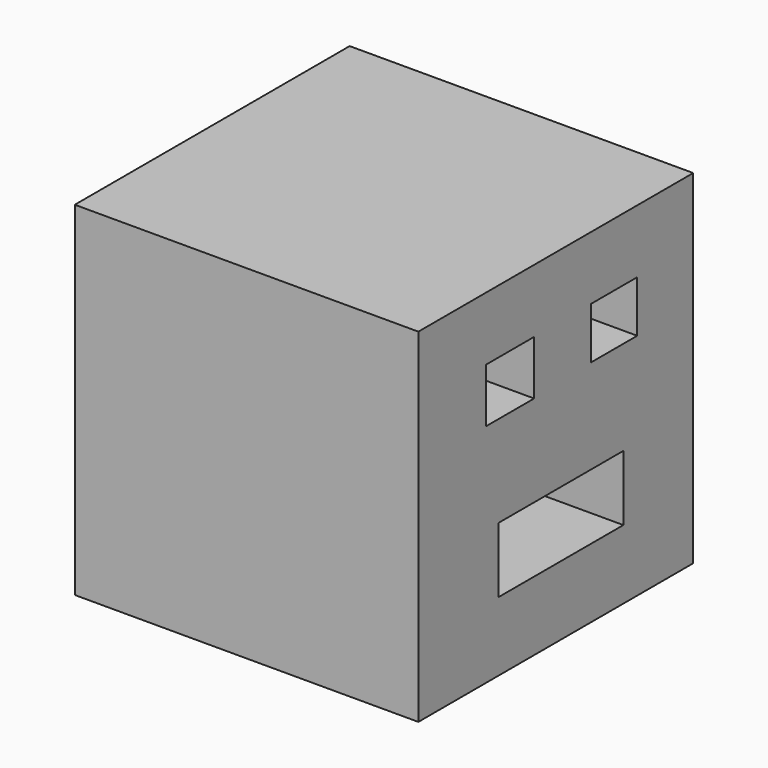
from build123d import *

# Parameters (mm, degrees)
F0_W     = 76.2
F0_H     = 76.2
F1_DEPTH = 76.2
F2_W     = 12.78471
F2_H     = 11.434516
F2_W_2   = 13.372
F2_H_2   = 12.032146
F2_W_3   = 34.573561
F2_H_3   = 14.494572
F4_DEPTH = 73.040023
F3_W     = 22.247531
F3_H     = 27.866135
F5_DEPTH = 72.060369


with BuildPart() as f1:
    # F0 (on Front) → F1 (new body)
    with BuildSketch(Plane.XZ):
        with Locations((38.1, -38.1)):
            Rectangle(F0_W, F0_H)
    extrude(amount=F1_DEPTH)

    # F2 (on face) → F4 (cut)
    with BuildSketch(Plane.YZ.offset(76.2)):
        with Locations((-21.916236, -19.748955)):
            Rectangle(F2_W, F2_H)
        with Locations((-50.78535, -20.083058)):
            Rectangle(F2_W_2, F2_H_2)
        with Locations((-36.654551, -53.62192)):
            Rectangle(F2_W_3, F2_H_3)
    extrude(amount=-F4_DEPTH, mode=Mode.SUBTRACT)

    # F3 (on face) → F5 (cut)
    with BuildSketch(Plane(origin=(0, 0, -76.2), x_dir=(1, 0, 0), z_dir=(0, 0, -1))):
        with Locations((35.47072, 36.344724)):
            Rectangle(F3_W, F3_H)
    extrude(amount=-F5_DEPTH, mode=Mode.SUBTRACT)


solid = f1.part
